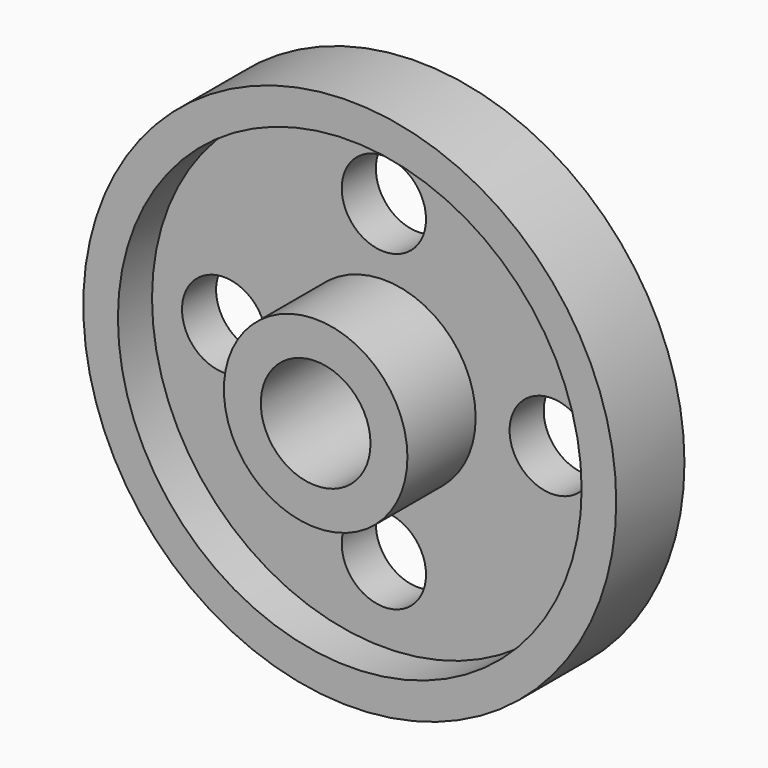
from build123d import *

# Parameters (mm, degrees)
F0_R     = 27.340832
F0_R_2   = 16.335261
F1_DEPTH = 38.1
F0_R_3   = 69.066802
F0_R_4   = 12.554294
F2_DEPTH = 12.7
F0_R_5   = 79.380509
F3_DEPTH = 25.4


with BuildPart() as f1:
    # F0 (on Front) → F1 (new body)
    with BuildSketch(Plane.XZ):
        Circle(F0_R)
        Circle(F0_R_2, mode=Mode.SUBTRACT)
    extrude(amount=F1_DEPTH)


with BuildPart() as f2:
    # F0 (on Front) → F2 (new body)
    with BuildSketch(Plane.XZ):
        Circle(F0_R_3)
        with Locations((0, -45.93984)):
            Circle(F0_R_4, mode=Mode.SUBTRACT)
        with Locations((-47.579579, 0)):
            Circle(F0_R_4, mode=Mode.SUBTRACT)
        Circle(F0_R, mode=Mode.SUBTRACT)
        with Locations((50.001394, 0)):
            Circle(F0_R_4, mode=Mode.SUBTRACT)
        with Locations((0, 47.258757)):
            Circle(F0_R_4, mode=Mode.SUBTRACT)
    extrude(amount=F2_DEPTH)

    # F0 (on Front) → F3 (join)
    with BuildSketch(Plane.XZ):
        Circle(F0_R_5)
        Circle(F0_R_3, mode=Mode.SUBTRACT)
    extrude(amount=F3_DEPTH)


solid = Compound([f1.part, f2.part])
